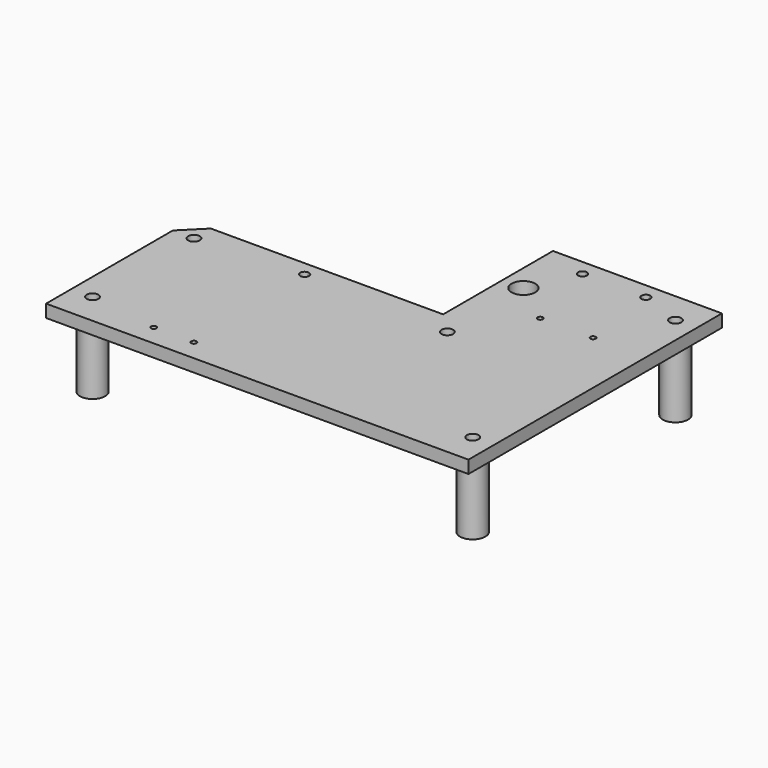
from build123d import *

# Parameters (mm, degrees)
F0_R     = 2.75
F0_R_2   = 5.6
F1_DEPTH = 6
F2_R     = 6
F3_DEPTH = 33.5


with BuildPart() as f1:
    # F0 (on Top) → F1 (new body)
    with BuildSketch(Plane.XY):
        Polygon((-126.28656, 110.711451), (-126.28656, 45.711451), (-236.28656, 45.711451), (-246.28656, 35.711451), (-246.28656, -39.288549), (-46.28656, -39.288549), (-46.28656, 110.711451), align=None)
        with Locations((-236.28656, -24.288549)):
            Circle(F0_R, mode=Mode.SUBTRACT)
        with BuildLine():
            ThreePointArc((-203.28656, -28.038549), (-202.402677, -28.404666), (-202.03656, -29.288549))
            ThreePointArc((-202.03656, -29.288549), (-202.402677, -30.172432), (-203.28656, -30.538549))
            ThreePointArc((-203.28656, -30.538549), (-204.170443, -30.172432), (-204.53656, -29.288549))
            ThreePointArc((-204.53656, -29.288549), (-204.170443, -28.404666), (-203.28656, -28.038549))
        make_face(mode=Mode.SUBTRACT)
        with BuildLine():
            ThreePointArc((-184.28656, -28.038549), (-183.402677, -28.404666), (-183.03656, -29.288549))
            ThreePointArc((-183.03656, -29.288549), (-183.402677, -30.172432), (-184.28656, -30.538549))
            ThreePointArc((-184.28656, -30.538549), (-185.170443, -30.172432), (-185.53656, -29.288549))
            ThreePointArc((-185.53656, -29.288549), (-185.170443, -28.404666), (-184.28656, -28.038549))
        make_face(mode=Mode.SUBTRACT)
        with Locations((-56.28656, -24.288549)):
            Circle(F0_R, mode=Mode.SUBTRACT)
        with Locations((-236.28656, 35.711451)):
            Circle(F0_R, mode=Mode.SUBTRACT)
        with BuildLine():
            ThreePointArc((-186.28656, 40.811451), (-184.801636, 40.196375), (-184.18656, 38.711451))
            ThreePointArc((-184.18656, 38.711451), (-184.801636, 37.226527), (-186.28656, 36.611451))
            ThreePointArc((-186.28656, 36.611451), (-187.771484, 37.226527), (-188.38656, 38.711451))
            ThreePointArc((-188.38656, 38.711451), (-187.771484, 40.196375), (-186.28656, 40.811451))
        make_face(mode=Mode.SUBTRACT)
        with Locations((-116.28656, 35.711451)):
            Circle(F0_R, mode=Mode.SUBTRACT)
        with BuildLine():
            ThreePointArc((-96.28656, 66.961451), (-95.402677, 66.595334), (-95.03656, 65.711451))
            ThreePointArc((-95.03656, 65.711451), (-95.402677, 64.827568), (-96.28656, 64.461451))
            ThreePointArc((-96.28656, 64.461451), (-97.170443, 64.827568), (-97.53656, 65.711451))
            ThreePointArc((-97.53656, 65.711451), (-97.170443, 66.595334), (-96.28656, 66.961451))
        make_face(mode=Mode.SUBTRACT)
        with BuildLine():
            ThreePointArc((-71.28656, 66.961451), (-70.402677, 66.595334), (-70.03656, 65.711451))
            ThreePointArc((-70.03656, 65.711451), (-70.402677, 64.827568), (-71.28656, 64.461451))
            ThreePointArc((-71.28656, 64.461451), (-72.170443, 64.827568), (-72.53656, 65.711451))
            ThreePointArc((-72.53656, 65.711451), (-72.170443, 66.595334), (-71.28656, 66.961451))
        make_face(mode=Mode.SUBTRACT)
        with Locations((-116.28656, 80.711451)):
            Circle(F0_R_2, mode=Mode.SUBTRACT)
        with BuildLine():
            ThreePointArc((-106.28656, 105.311451), (-104.801636, 104.696375), (-104.18656, 103.211451))
            ThreePointArc((-104.18656, 103.211451), (-104.801636, 101.726527), (-106.28656, 101.111451))
            ThreePointArc((-106.28656, 101.111451), (-107.771484, 101.726527), (-108.38656, 103.211451))
            ThreePointArc((-108.38656, 103.211451), (-107.771484, 104.696375), (-106.28656, 105.311451))
        make_face(mode=Mode.SUBTRACT)
        with BuildLine():
            ThreePointArc((-76.28656, 105.311451), (-74.801636, 104.696375), (-74.18656, 103.211451))
            ThreePointArc((-74.18656, 103.211451), (-74.801636, 101.726527), (-76.28656, 101.111451))
            ThreePointArc((-76.28656, 101.111451), (-77.771484, 101.726527), (-78.38656, 103.211451))
            ThreePointArc((-78.38656, 103.211451), (-77.771484, 104.696375), (-76.28656, 105.311451))
        make_face(mode=Mode.SUBTRACT)
        with Locations((-56.28656, 95.711451)):
            Circle(F0_R, mode=Mode.SUBTRACT)
    extrude(amount=F1_DEPTH)


with BuildPart() as f3:
    # F2 (on face) → F3 (new body)
    with BuildSketch(Plane(origin=(0, 0, 0), x_dir=(1, 0, 0), z_dir=(0, 0, -1))):
        with Locations((-236.28656, 24.288549)):
            Circle(F2_R)
        with Locations((-236.28656, -35.711451)):
            Circle(F2_R)
        with Locations((-56.28656, 24.288549)):
            Circle(F2_R)
        with Locations((-56.28656, -95.711451)):
            Circle(F2_R)
        with Locations((-116.28656, -35.711451)):
            Circle(F2_R)
    extrude(amount=F3_DEPTH)


solid = Compound([f1.part, f3.part])
